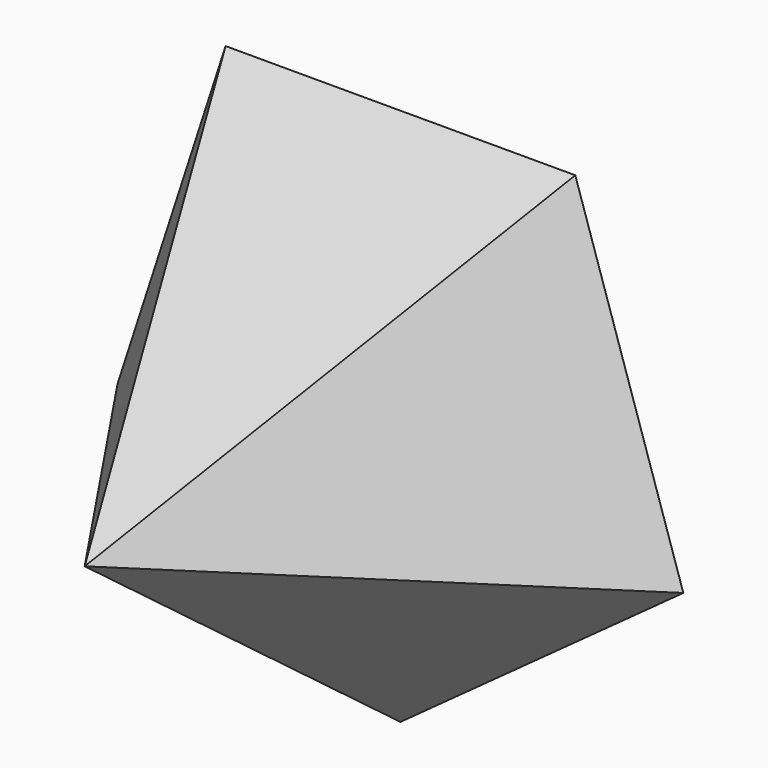
from build123d import *


with BuildPart() as f3:
    # F0 (on Front) → F3 section 0
    with BuildSketch(Plane.XZ, mode=Mode.PRIVATE) as f3_s0:
        Polygon((47.397228, 65.236688), (-47.397228, 65.236688), (-76.690326, -24.918197), (0, -80.636981), (76.690326, -24.918197), align=None)
    loft([f3_s0.sketch, Vertex(0, -107, 0)])


solid = f3.part
